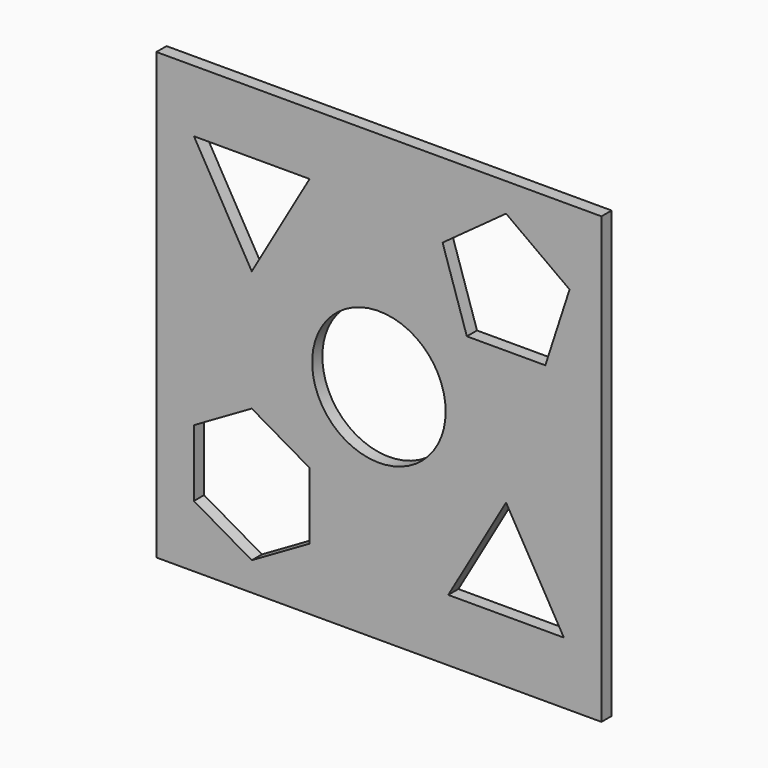
from build123d import *

# Parameters (mm, degrees)
SKETCH_W  = 140
SKETCH_H  = 140
SKETCH_R  = 21
PAD_DEPTH = 4


with BuildPart() as part:
    # Sketch → Pad (new body)
    with BuildSketch(Plane.XZ):
        Rectangle(SKETCH_W, SKETCH_H)
        Circle(SKETCH_R, mode=Mode.SUBTRACT)
        Polygon((-40, 19), (-21.813467, 50.5), (-58.186533, 50.5), align=None, mode=Mode.SUBTRACT)
        Polygon((40, -19), (21.813467, -50.5), (58.186533, -50.5), align=None, mode=Mode.SUBTRACT)
        Polygon((27.65651, 23.010643), (52.34349, 23.010643), (59.972187, 46.489357), (40, 61), (20.027813, 46.489357), align=None, mode=Mode.SUBTRACT)
        Polygon((-21.813467, -29.5), (-40, -19), (-58.186533, -29.5), (-58.186533, -50.5), (-40, -61), (-21.813467, -50.5), align=None, mode=Mode.SUBTRACT)
    extrude(amount=PAD_DEPTH)


solid = part.part
